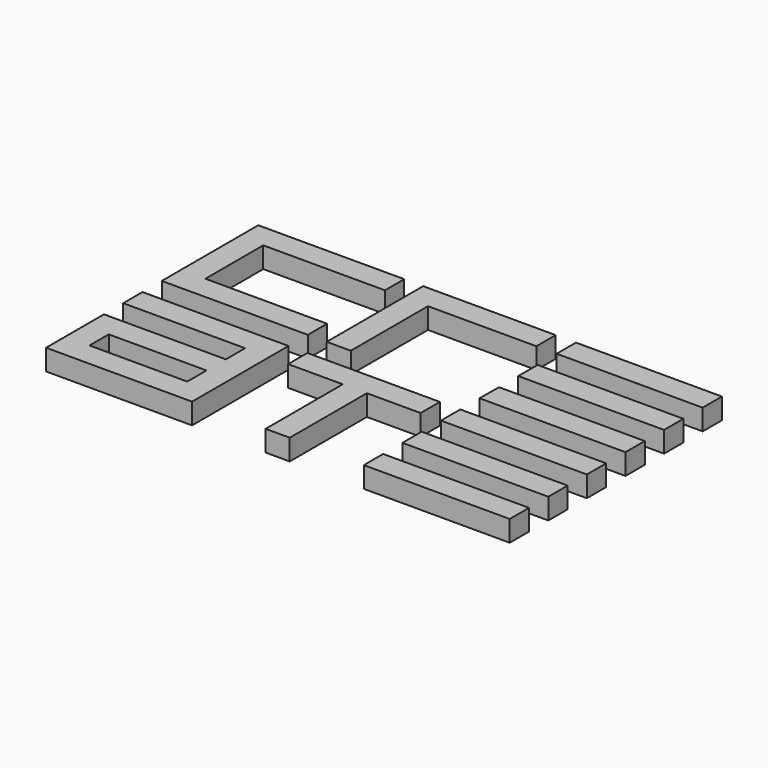
from build123d import *

# Parameters (mm, degrees)
F1_DEPTH = 0.79375
F0_W     = 5.5372115393
F0_H     = 0.9144
F0_W_2   = 5.5339674
F0_W_3   = 3.7084


with BuildPart() as f1:
    # F0 (on Top) → F1 (new body)
    with BuildSketch(Plane.XY):
        Polygon((-3.2516753042, 5.020469915), (-8.7888753042, 5.020469915), (-8.7888753042, 0.448469915), (-3.2516753042, 0.448469915), (-3.2516753042, 1.362869915), (-7.8683095053, 1.362869915), (-7.8683095053, 4.106069915), (-3.2516753042, 4.106069915), align=None)
    extrude(amount=F1_DEPTH)


with BuildPart() as f1b:
    # F0 (on Top) → F1, piece 2 (new body)
    with BuildSketch(Plane.XY):
        Polygon((2.491109306, 5.020469915), (-2.5352544617, 5.020469915), (-2.5352544617, 0.448469915), (-1.6208544617, 0.448469915), (-1.6208544617, 4.106069915), (2.491109306, 4.106069915), align=None)
    extrude(amount=F1_DEPTH)


with BuildPart() as f1c:
    # F0 (on Top) → F1, piece 3 (new body)
    with BuildSketch(Plane.XY):
        with Locations((6.0289475982, 4.563269915)):
            Rectangle(F0_W, F0_H)
    extrude(amount=F1_DEPTH)


with BuildPart() as f1d:
    # F0 (on Top) → F1, piece 4 (new body)
    with BuildSketch(Plane.XY):
        Polygon((8.7975533679, 2.277269915), (8.7975533679, 3.191669915), (3.2679176269, 3.191669915), (3.2648988339, 2.277269915), align=None)
    extrude(amount=F1_DEPTH)


with BuildPart() as f1e:
    # F0 (on Top) → F1, piece 5 (new body)
    with BuildSketch(Plane.XY):
        Polygon((3.2603533679, 0.448469915), (8.7975533679, 0.448469915), (8.7975533679, 1.362869915), (3.2693795056, 1.362869915), align=None)
    extrude(amount=F1_DEPTH)


with BuildPart() as f1f:
    # F0 (on Top) → F1, piece 6 (new body)
    with BuildSketch(Plane.XY):
        with Locations((6.0305696679, -0.9248565126)):
            Rectangle(F0_W_2, F0_H)
    extrude(amount=F1_DEPTH)


with BuildPart() as f1g:
    # F0 (on Top) → F1, piece 7 (new body)
    with BuildSketch(Plane.XY):
        with Locations((6.0305696679, -2.7536565126)):
            Rectangle(F0_W_2, F0_H)
    extrude(amount=F1_DEPTH)


with BuildPart() as f1h:
    # F0 (on Top) → F1, piece 8 (new body)
    with BuildSketch(Plane.XY):
        with Locations((6.0305696679, -4.5824565126)):
            Rectangle(F0_W_2, F0_H)
    extrude(amount=F1_DEPTH)


with BuildPart() as f1i:
    # F0 (on Top) → F1, piece 9 (new body)
    with BuildSketch(Plane.XY):
        Polygon((2.491109306, -0.4676565126), (-2.5352544617, -0.4676565126), (-2.5352544617, -1.3820565126), (-0.4614913196, -1.3820565126), (-0.4614913196, -2.2964565126), (-0.4614913196, -3.2108565126), (0.4529086804, -3.2108565126), (0.4529086804, -2.2964565126), (0.4529086804, -1.3820565126), (2.491109306, -1.3820565126), align=None)
        Polygon((-0.4614913196, -4.1252565126), (-0.4614913196, -5.0396565126), (0.4529086804, -5.0396565126), (0.4529086804, -4.1252565126), (0.4529086804, -3.2108565126), (-0.4614913196, -3.2108565126), align=None)
    extrude(amount=F1_DEPTH)


with BuildPart() as f1j:
    # F0 (on Top) → F1, piece 10 (new body)
    with BuildSketch(Plane.XY):
        Polygon((-4.1660753042, -2.2964565126), (-8.7888753042, -2.2964565126), (-8.7888753042, -5.0396565126), (-3.2516753042, -5.0396565126), (-3.2516753042, -4.1252565126), (-3.2516753042, -3.2108565126), (-3.2516753042, -2.2964565126), align=None)
        with Locations((-6.0202753042, -3.6680565126)):
            Rectangle(F0_W_3, F0_H, mode=Mode.SUBTRACT)
        Polygon((-3.2516753042, -0.4676565126), (-8.7888753042, -0.4676565126), (-8.7888753042, -1.3820565126), (-4.1660753042, -1.3820565126), (-4.1660753042, -2.2964565126), (-3.2516753042, -2.2964565126), (-3.2516753042, -1.3820565126), align=None)
    extrude(amount=F1_DEPTH)


solid = Compound([f1.part, f1b.part, f1c.part, f1d.part, f1e.part, f1f.part, f1g.part, f1h.part, f1i.part, f1j.part])
